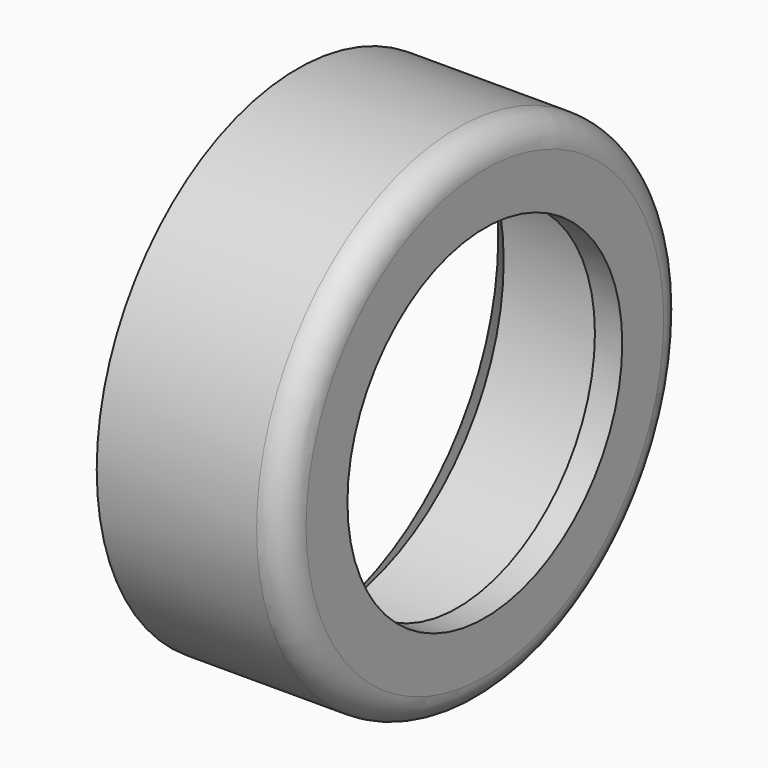
from build123d import *


with BuildPart() as f1:
    # F0 (on Top) → F1 (revolve)
    with BuildSketch(Plane.XY):
        with BuildLine():
            ThreePointArc((0, 22.7203), (-0.818344, 24.695956), (-2.794, 25.5143))
            Line((-2.794, 25.5143), (-19.05, 25.5143))
            Line((-19.05, 25.5143), (-16.271875, 22.736175))
            Line((-16.271875, 22.736175), (-3.921125, 22.736175))
            ThreePointArc((-3.921125, 22.736175), (-3.112902, 22.401398), (-2.778125, 21.593175))
            Line((-2.778125, 21.593175), (-2.778125, 17.4625))
            Line((-2.778125, 17.4625), (0, 17.4625))
            Line((0, 17.4625), (0, 22.7203))
        make_face()
    revolve(axis=Axis((-9.525, 0, 0), (-1, 0, 0)))


solid = f1.part
